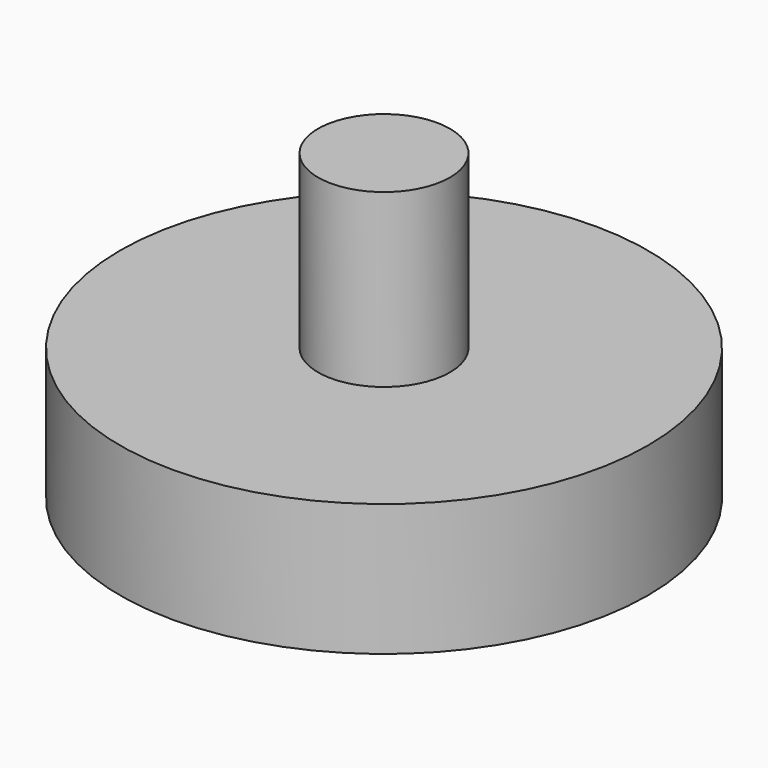
from build123d import *

# Parameters (mm, degrees)
F0_R     = 20
F1_DEPTH = 10
F2_R     = 5
F3_DEPTH = 13
F5_DEPTH = 5


with BuildPart() as f1:
    # F0 (on Top) → F1 (new body)
    with BuildSketch(Plane.XY):
        Circle(F0_R)
    extrude(amount=F1_DEPTH)

    # F2 (on face) → F3 (join)
    with BuildSketch(Plane.XY.offset(10)):
        Circle(F2_R)
    extrude(amount=F3_DEPTH)

    # F4 (on face) → F5 (cut)
    with BuildSketch(Plane(origin=(0, 0, 0), x_dir=(1, 0, 0), z_dir=(0, 0, -1))):
        with BuildLine():
            Line((0, -1), (1.732051, -1))
            ThreePointArc((1.732051, -1), (0, 2), (-1.732051, -1))
            Line((-1.732051, -1), (0, -1))
        make_face()
    extrude(amount=-F5_DEPTH, mode=Mode.SUBTRACT)


solid = f1.part
